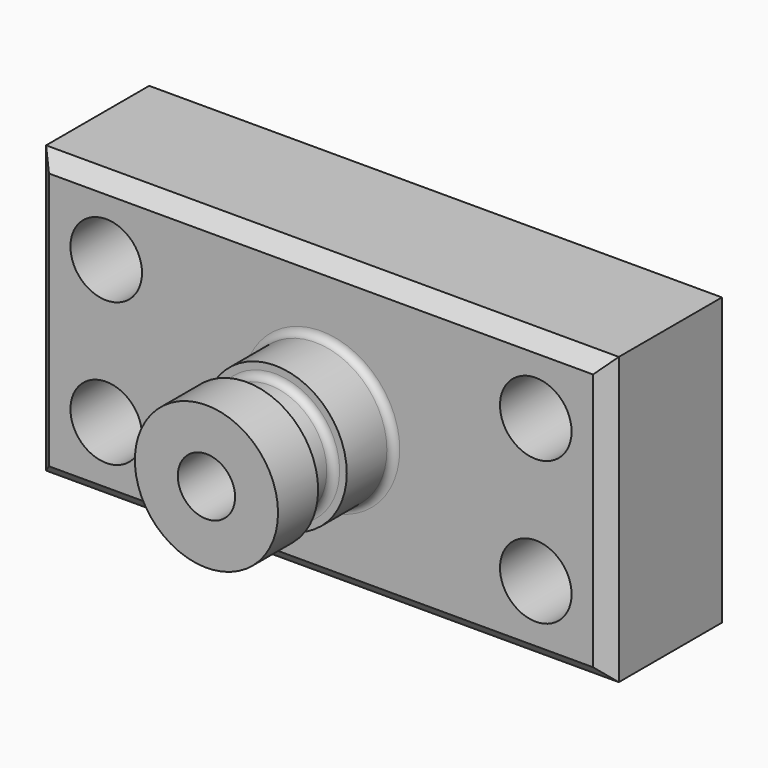
from build123d import *

# Parameters (mm, degrees)
F0_W      = 101.6
F0_H      = 50.8
F1_DEPTH  = 25.4
F2_R      = 6.35
F3_DEPTH  = 25.401
F4_W      = 12.7
F4_H      = 25.4
F6_W      = 14.885251
F6_H      = 6.35
F8_R      = 1.27
F9_SIZE   = 2.54
F10_R     = 5.08
F11_DEPTH = 50.801


with BuildPart() as f1:
    # F0 (on Front) → F1 (new body)
    with BuildSketch(Plane.XZ):
        Rectangle(F0_W, F0_H)
    extrude(amount=F1_DEPTH)

    # F2 (on face) → F3 (cut, through all)
    with BuildSketch(Plane.XZ.offset(25.4)):
        with Locations((-38.1, 12.7)):
            Circle(F2_R)
        with Locations((38.1, 12.7)):
            Circle(F2_R)
        with Locations((38.1, -12.7)):
            Circle(F2_R)
        with Locations((-38.1, -12.7)):
            Circle(F2_R)
    extrude(amount=-F3_DEPTH, mode=Mode.SUBTRACT)

    # F4 (on Top) → F5 (revolve)
    with BuildSketch(Plane.XY):
        with Locations((6.35, -38.1)):
            Rectangle(F4_W, F4_H)
    revolve(axis=Axis((0, -38.1, 0), (0, -1, 0)))

    # F6 (on Top) → F7 (revolve, cut)
    with BuildSketch(Plane.XY):
        with Locations((-17.602626, -38.735)):
            Rectangle(F6_W, F6_H)
    revolve(axis=Axis((0, -35.056077, 0), (0, 1, 0)), mode=Mode.SUBTRACT)

    # F8
    f8_edges = [f1.edges().sort_by_distance(p)[0] for p in [
        (-12.7, -25.4, 0),
        (10.16, -35.56, 0),
        (10.16, -41.91, 0),
    ]]
    fillet(f8_edges, radius=F8_R)

    # F9
    f9_edges = [f1.edges().sort_by_distance(p)[0] for p in [
        (0, -25.4, -25.4),
        (0, -25.4, 25.4),
        (50.8, -25.4, 0),
        (-50.8, -25.4, 0),
    ]]
    chamfer(f9_edges, length=F9_SIZE)

    # F10 (on face) → F11 (cut, through all)
    with BuildSketch(Plane.XZ.offset(50.8)):
        Circle(F10_R)
    extrude(amount=-F11_DEPTH, mode=Mode.SUBTRACT)


solid = f1.part
